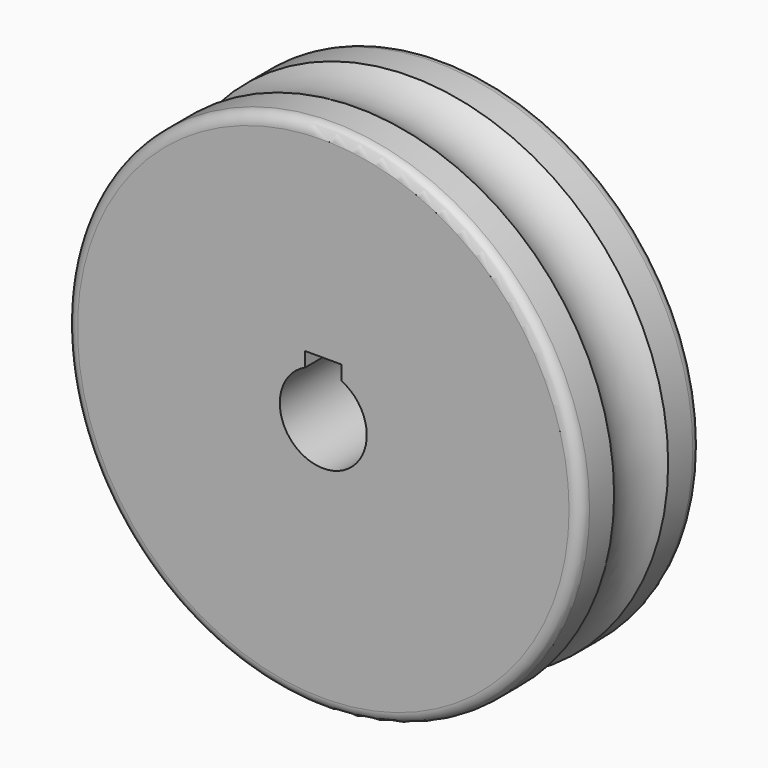
from build123d import *

# Parameters (mm, degrees)
SKETCH002_R  = 35.5
PAD001_DEPTH = 10.477
FILLET_R     = 1.57
FILLET001_R  = 1.57
SKETCH003_R  = 8


with BuildPart() as part:
    # Sketch002 → Pad001 (new body, symmetric)
    with BuildSketch(Plane.XZ):
        Circle(SKETCH002_R)
        with BuildLine():
            ThreePointArc((-2.5, 5.454356), (0, -6), (2.5, 5.454356))
            Line((2.5, 7.454356), (2.5, 5.454356))
            Line((-2.5, 7.454356), (2.5, 7.454356))
            Line((-2.5, 5.454356), (-2.5, 7.454356))
        make_face(mode=Mode.SUBTRACT)
    extrude(amount=PAD001_DEPTH, both=True)

    # Fillet
    fillet_edges = [part.edges().sort_by_distance(p)[0] for p in [
        (-35.5, 10.477, 0),
    ]]
    fillet(fillet_edges, radius=FILLET_R)

    # Fillet001
    fillet001_edges = [part.edges().sort_by_distance(p)[0] for p in [
        (-35.5, -10.477, 0),
    ]]
    fillet(fillet001_edges, radius=FILLET001_R)

    # Sketch003 → Groove (revolve, cut)
    with BuildSketch(Plane.XY):
        with Locations((42, 0)):
            Circle(SKETCH003_R)
    revolve(axis=Axis((0, 0, 0), (0, 1, 0)), mode=Mode.SUBTRACT)


solid = part.part
